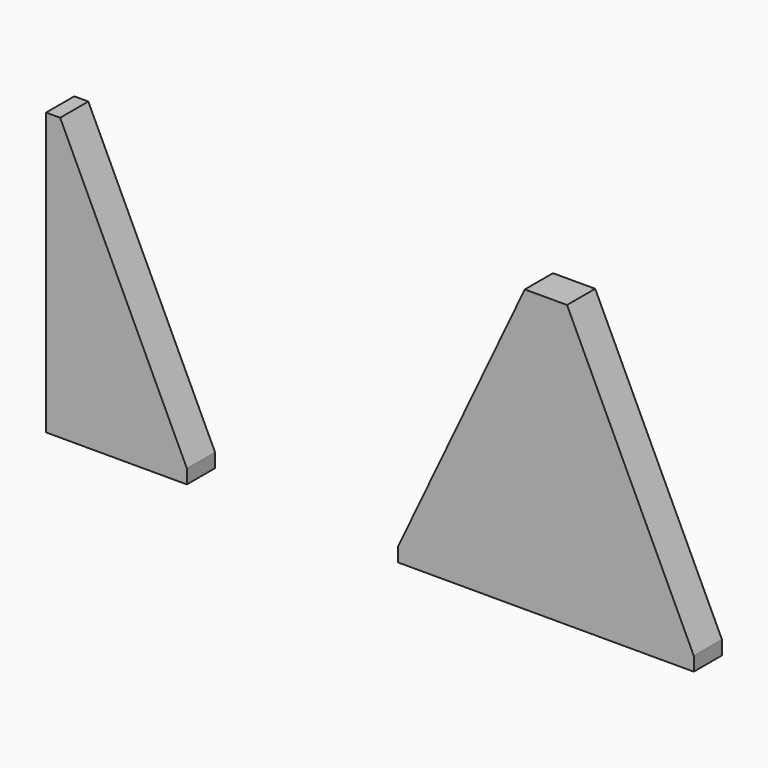
from build123d import *

# Parameters (mm, degrees)
F1_DEPTH = 25
F2_DEPTH = 25


with BuildPart() as f1:
    # F0 (on Front) → F1 (new body)
    with BuildSketch(Plane.XZ):
        Polygon((-240, 200), (-250, 200), (-250, 0), (-150, 0), (-150, 10), align=None)
    extrude(amount=F1_DEPTH)


with BuildPart() as f2:
    # F0 (on Front) → F2 (new body)
    with BuildSketch(Plane.XZ):
        Polygon((0, 10), (0, 0), (210, 0), (210, 10), (120, 200), (90, 200), align=None)
    extrude(amount=F2_DEPTH)


solid = Compound([f1.part, f2.part])
